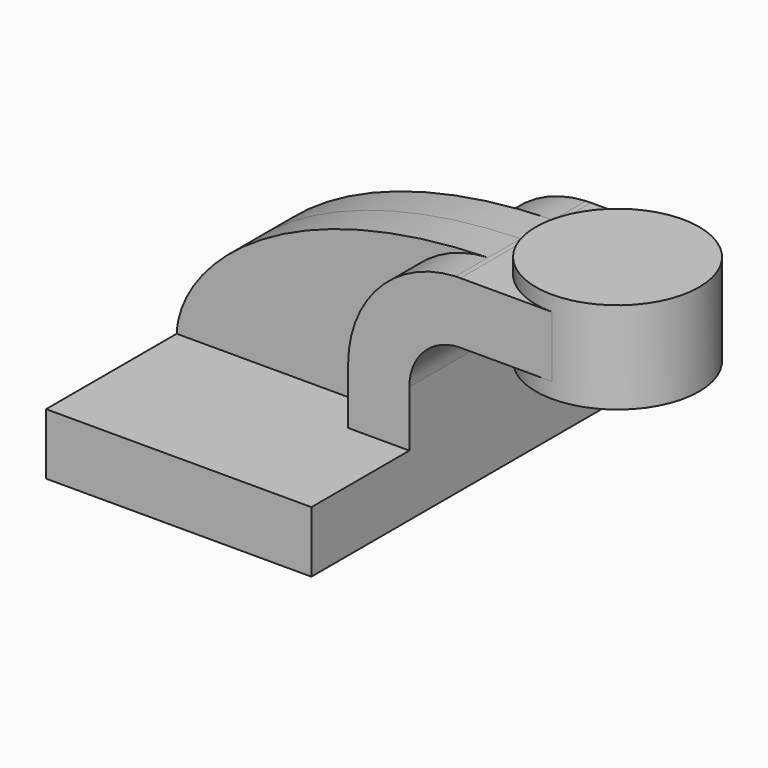
from build123d import *

# Parameters (mm, degrees)
F1_DEPTH = 25
F2_DEPTH = 5
F0_W     = 10
F0_H     = 7.5000003082
F3_DEPTH = 10


with BuildPart() as f1:
    # F0 (on Front) → F1 (new body, symmetric)
    with BuildSketch(Plane.XZ):
        Polygon((-16.25, 3.75), (-16.25, -3.75), (16.25, -3.75), (16.25, 3.75), (8.7499996918, 3.75), align=None)
    extrude(amount=F1_DEPTH, both=True)

    # F0 (on Front) → F2 (join, symmetric)
    with BuildSketch(Plane.XZ):
        with BuildLine():
            add(Edge.make_bspline(
                [(21.8955707276, 24.3667089847), (-3.4341610337, 23.7179701403), (-15.9380340583, 11.8111578561), (-16.25, 3.75)],
                knots=[0.3450535136, 0.3450535136, 0.3450535136, 0.3450535136, 43.8994238312, 43.8994238312, 43.8994238312, 43.8994238312], degree=3))
            Line((-16.25, 3.75), (8.7499996918, 3.75))
            Line((8.7499996918, 3.75), (8.7499996918, 10.63))
            ThreePointArc((8.7499996918, 10.63), (12.5658817413, 20.1366188993), (21.8955707276, 24.3667089847))
        make_face()
    extrude(amount=F2_DEPTH, both=True)

    # F0 (on Front) → F3 (join, symmetric)
    with BuildSketch(Plane.XZ):
        with BuildLine():
            Line((8.7499996918, 3.75), (16.25, 3.75))
            Line((16.25, 3.75), (16.25, 10.63))
            ThreePointArc((16.25, 10.63), (18.0805826176, 15.0494173824), (22.5, 16.88))
            Line((22.5, 16.88), (23.75, 16.88))
            Line((23.75, 16.88), (23.75, 24.3800003082))
            Line((23.75, 24.3800003082), (22.5, 24.3800003082))
            add(Edge.make_bspline(
                [(22.5, 24.3800003082), (22.2977183657, 24.3762814735), (22.0962420467, 24.371848529), (21.8955707276, 24.3667089847)],
                knots=[0, 0, 0, 0, 0.3450535136, 0.3450535136, 0.3450535136, 0.3450535136], degree=3))
            ThreePointArc((21.8955707276, 24.3667089847), (12.5658817413, 20.1366188993), (8.7499996918, 10.63))
            Line((8.7499996918, 10.63), (8.7499996918, 3.75))
        make_face()
        with Locations((28.75, 20.6300001541)):
            Rectangle(F0_W, F0_H)
    extrude(amount=F3_DEPTH, both=True)

    # F0 (on Front) → F4 (revolve)
    with BuildSketch(Plane.XZ):
        Polygon((33.75, 26.25), (33.75, 24.3800003082), (33.75, 16.88), (33.75, 15), (43.75, 15), (43.75, 26.25), align=None)
    revolve(axis=Axis((33.75, 0, 20.625), (0, 0, -1)))


solid = f1.part
